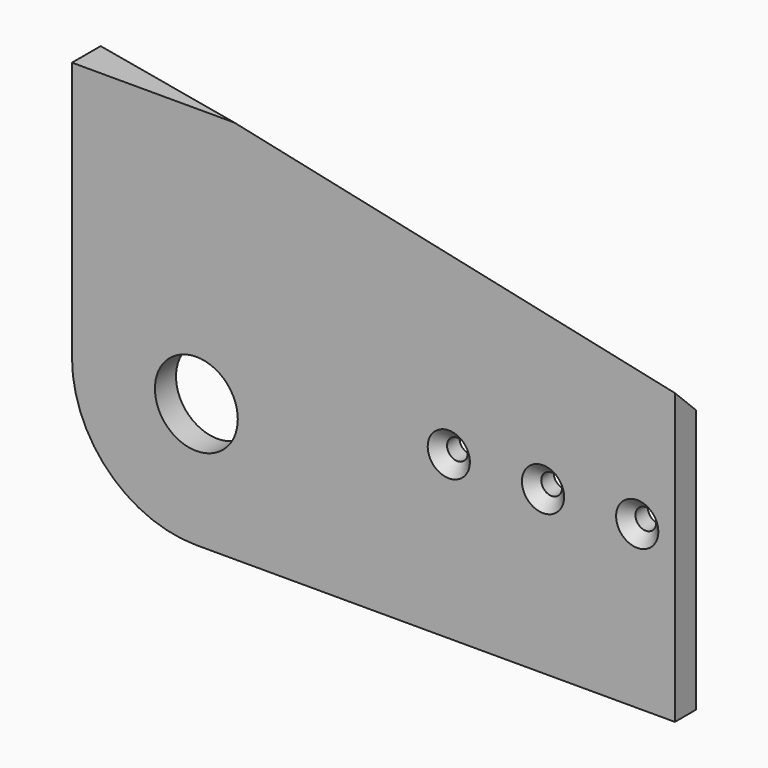
from build123d import *

# Parameters (mm, degrees)
F0_R           = 11
F0_R_2         = 2.5
F1_DEPTH       = 7
F2_D           = 5.5
F2_CSINK_D     = 11.2
F2_CSINK_ANGLE = 90
F4_DEPTH       = 36
F5_SIZE        = 32


with BuildPart() as f1:
    # F0 (on Front) → F1 (new body)
    with BuildSketch(Plane.XZ):
        with BuildLine():
            Line((0, -33), (127, -33))
            Line((127, -33), (127, 33))
            Line((127, 33), (-33, 33))
            Line((-33, 33), (-33, 0))
            ThreePointArc((-33, 0), (-23.3345237792, -23.3345237792), (0, -33))
        make_face()
        Circle(F0_R, mode=Mode.SUBTRACT)
        with Locations((67, 10)):
            Circle(F0_R_2, mode=Mode.SUBTRACT)
        with Locations((92, 10)):
            Circle(F0_R_2, mode=Mode.SUBTRACT)
        with Locations((117, 10)):
            Circle(F0_R_2, mode=Mode.SUBTRACT)
    extrude(amount=-F1_DEPTH)

    # F2 (through all)
    with Locations(Plane.XZ):
        with Locations((117, 10), (92, 10), (67, 10)):
            CounterSinkHole(F2_D / 2, F2_CSINK_D / 2, counter_sink_angle=F2_CSINK_ANGLE)

    # F3 (on face) → F4 (join)
    with BuildSketch(Plane.XY.offset(33)):
        Polygon((0, 35), (-33, 35), (-33, 0), (127, 0), (127, 7), align=None)
    extrude(amount=F4_DEPTH)

    # F5
    f5_edges = [f1.edges().sort_by_distance(p)[0] for p in [
        (63.5, 21, 69),
    ]]
    chamfer(f5_edges, length=F5_SIZE)


solid = f1.part
